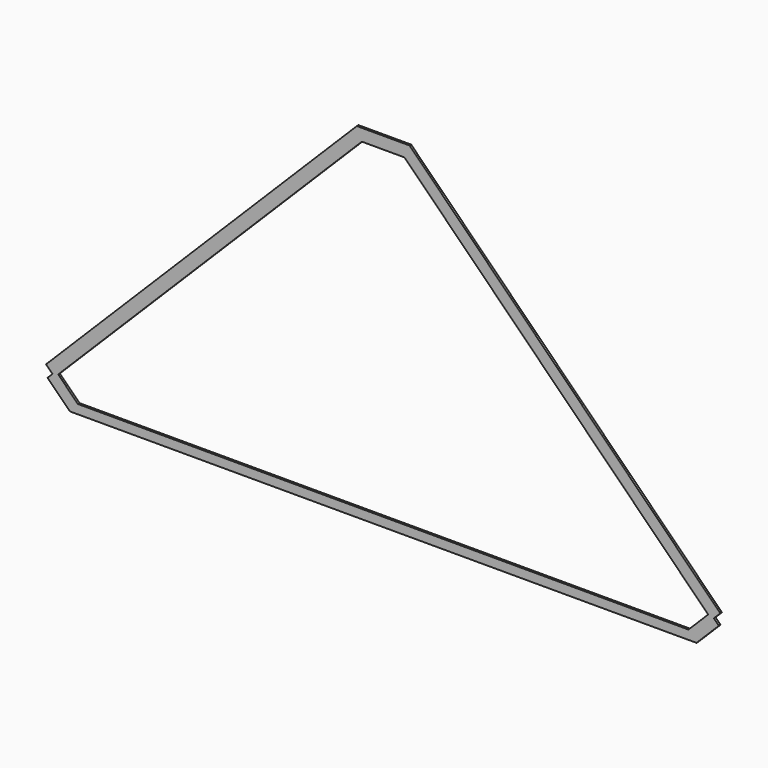
from build123d import *

# Parameters (mm, degrees)
F1_DEPTH = 2
F3_DEPTH = 2
F4_W     = 650
F4_H     = 6
F5_DEPTH = 2


with BuildPart() as f1:
    # F0 (on Front) → F1 (new body)
    with BuildSketch(Plane.XZ):
        Polygon((327.300058, 30.053136), (333.664019, 36.417097), (26.07257, 344.008547), (0, 344.008547), (-26.07257, 344.008547), (-333.664019, 36.417097), (-327.300058, 30.053136), (-332.249806, 25.103389), (-307.146417, 0), (0, 0), (307.146417, 0), (332.249806, 25.103389), align=None)
    extrude(amount=F1_DEPTH)

    # F2 (on face) → F3 (cut)
    with BuildSketch(Plane.XZ.offset(2)):
        Polygon((321.643204, 31.46735), (21.102007, 332.008547), (0, 332.008547), (-21.102007, 332.008547), (-321.643204, 31.46735), (-302.175854, 12), (0, 12), (302.175854, 12), align=None)
    extrude(amount=-F3_DEPTH, mode=Mode.SUBTRACT)

    # F4 (on face) → F5 (cut)
    with BuildSketch(Plane.XZ.offset(2)):
        Rectangle(F4_W, F4_H)
    extrude(amount=-F5_DEPTH, mode=Mode.SUBTRACT)


solid = f1.part
